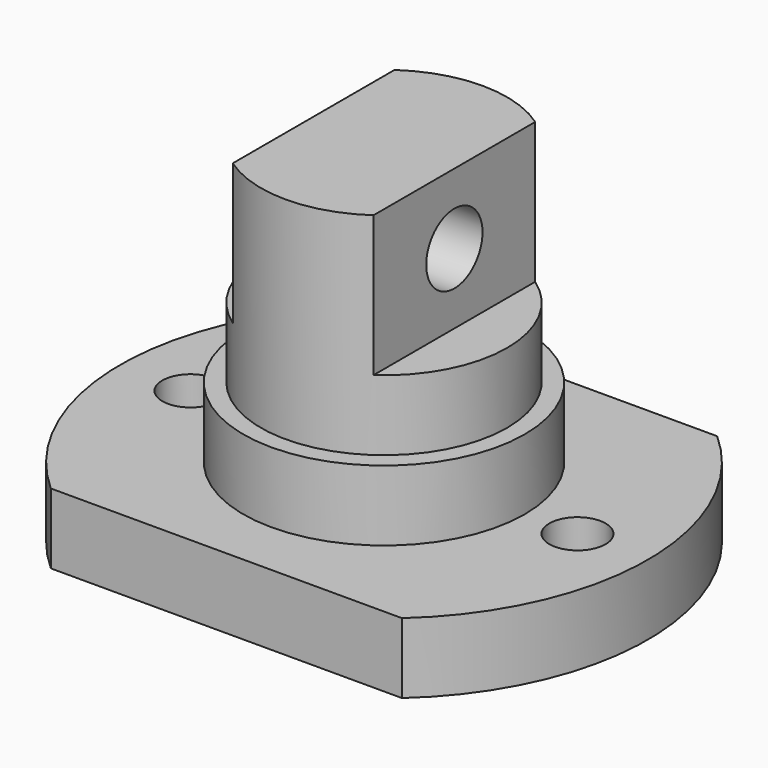
from build123d import *

# Parameters (mm, degrees)
F1_DEPTH  = 10
F2_R      = 4
F3_DEPTH  = 10
F4_R      = 20
F5_DEPTH  = 10
F6_R      = 17.5
F7_DEPTH  = 30
F9_DEPTH  = 20
F10_R     = 5
F11_DEPTH = 20


with BuildPart() as f1:
    # F0 (on Top) → F1 (new body)
    with BuildSketch(Plane.XY):
        with BuildLine():
            Line((24.944939, 28), (-24.944939, 28))
            ThreePointArc((-24.944939, 28), (-37.5, 0), (-24.944939, -28))
            Line((-24.944939, -28), (24.944939, -28))
            ThreePointArc((24.944939, -28), (37.5, 0), (24.944939, 28))
        make_face()
    extrude(amount=F1_DEPTH)

    # F2 (on face) → F3 (cut, through all)
    with BuildSketch(Plane.XY.offset(10)):
        with Locations((-27.5, 0)):
            Circle(F2_R)
        with Locations((27.5, 0)):
            Circle(F2_R)
    extrude(amount=-F3_DEPTH, mode=Mode.SUBTRACT)

    # F4 (on face) → F5 (join)
    with BuildSketch(Plane.XY.offset(10)):
        Circle(F4_R)
    extrude(amount=F5_DEPTH)

    # F6 (on face) → F7 (join)
    with BuildSketch(Plane.XY.offset(20)):
        Circle(F6_R)
    extrude(amount=F7_DEPTH)

    # F8 (on face) → F9 (cut)
    with BuildSketch(Plane.XY.offset(50)):
        with BuildLine():
            Line((-10, -14.361407), (-10, 14.361407))
            ThreePointArc((-10, 14.361407), (-17.5, 0), (-10, -14.361407))
        make_face()
        with BuildLine():
            ThreePointArc((17.5, 0), (15.512092, 8.100926), (10, 14.361407))
            Line((10, 14.361407), (10, -14.361407))
            ThreePointArc((10, -14.361407), (15.512092, -8.100926), (17.5, 0))
        make_face()
    extrude(amount=-F9_DEPTH, mode=Mode.SUBTRACT)

    # F10 (on face) → F11 (cut, through all)
    with BuildSketch(Plane.YZ.offset(10)):
        with Locations((0, 40)):
            Circle(F10_R)
    extrude(amount=-F11_DEPTH, mode=Mode.SUBTRACT)


solid = f1.part
